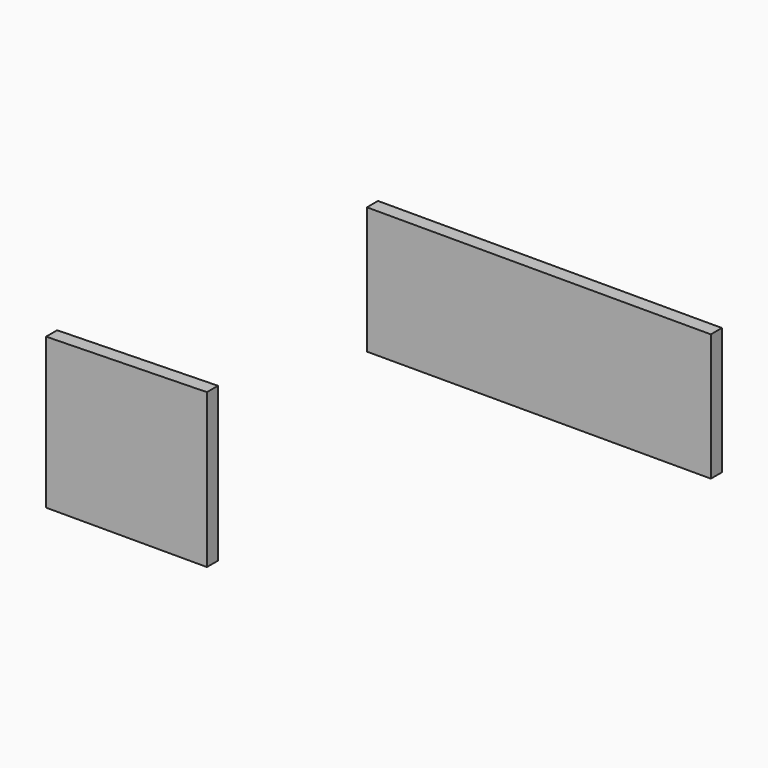
from build123d import *

# Parameters (mm, degrees)
F0_W     = 37.884593
F0_H     = 13.994683
F0_H_2   = 13.994682
F1_DEPTH = 3.048
F3_DEPTH = 3.048


with BuildPart() as f1:
    # F0 (on Front) → F1 (new body)
    with BuildSketch(Plane.XZ):
        with Locations((18.942296, 6.997342)):
            Rectangle(F0_W, F0_H)
        with Locations((18.942296, 20.992024)):
            Rectangle(F0_W, F0_H_2)
        with Locations((56.826889, 6.997342)):
            Rectangle(F0_W, F0_H)
        with Locations((56.826889, 20.992024)):
            Rectangle(F0_W, F0_H_2)
    extrude(amount=F1_DEPTH)


with BuildPart() as f3:
    # F2 (on Front) → F3 (new body)
    with BuildSketch(Plane.XZ):
        Polygon((-35.245866, -19.319259), (-70.680216, -20.073181), (-70.680216, -53.245764), (-35.245866, -53.245764), align=None)
    extrude(amount=F3_DEPTH)


solid = Compound([f1.part, f3.part])
